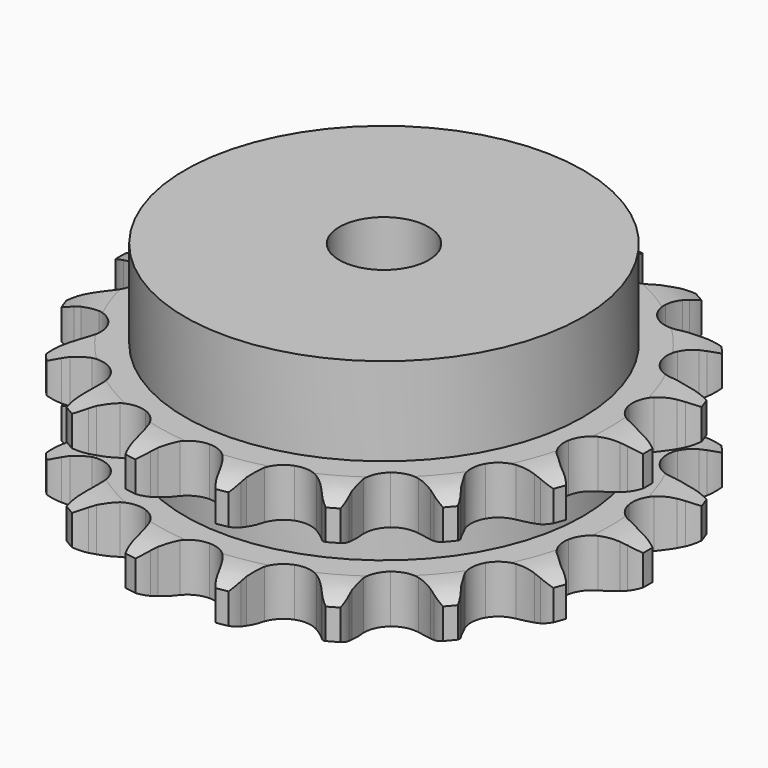
from build123d import *

# Parameters (mm, degrees)
PAD_DEPTH         = 30.3
SKETCH001_R       = 44.5
PAD001_DEPTH      = 50
SKETCH002_R       = 10
POCKET_DEPTH      = 0.001
POCKET_DEPTH_BACK = 50.001


with BuildPart() as part:
    # Sprocket → Pad (new body)
    with BuildSketch(Plane.XY):
        with BuildLine():
            ThreePointArc((-10.555317, 59.862178), (-8.754711, 58.078438), (-7.459976, 55.899546))
            Line((-7.459976, 55.899546), (-6.883971, 54.571303))
            ThreePointArc((-6.883971, 54.571303), (-5.949732, 52.750867), (-4.787505, 51.066821))
            ThreePointArc((-4.787505, 51.066821), (-2.659531, 49.358942), (0, 48.749014))
            ThreePointArc((0, 48.749014), (2.659531, 49.358942), (4.787505, 51.066821))
            ThreePointArc((4.787505, 51.066821), (5.949732, 52.750867), (6.883971, 54.571303))
            Line((6.883971, 54.571303), (7.459976, 55.899546))
            ThreePointArc((7.459976, 55.899546), (8.754711, 58.078438), (10.555317, 59.862178))
            ThreePointArc((10.555317, 59.862178), (11.637258, 57.570167), (12.108686, 55.079853))
            Line((12.108686, 55.079853), (12.195668, 53.634707))
            ThreePointArc((12.195668, 53.634707), (12.45094, 51.604529), (12.967099, 49.624538))
            ThreePointArc((12.967099, 49.624538), (14.38261, 47.291847), (16.673145, 45.809089))
            ThreePointArc((16.673145, 45.809089), (19.380895, 45.47262), (21.964664, 46.349692))
            Line((21.964664, 46.349692), (25.133301, 48.925794))
            ThreePointArc((25.133301, 48.925794), (25.619001, 49.4628), (26.128855, 49.976929))
            ThreePointArc((26.128855, 49.976929), (28.090733, 51.581592), (30.392824, 52.641916))
            ThreePointArc((30.392824, 52.641916), (30.625603, 50.118085), (30.216862, 47.616717))
            Line((30.216862, 47.616717), (29.80433, 46.228974))
            ThreePointArc((29.80433, 46.228974), (29.349845, 44.233923), (29.157679, 42.196803))
            ThreePointArc((29.157679, 42.196803), (29.689997, 39.520657), (31.335262, 37.343911))
            ThreePointArc((31.335262, 37.343911), (33.764636, 36.101629), (36.492561, 36.042106))
            Line((36.492561, 36.042106), (40.351185, 37.379112))
            ThreePointArc((40.351185, 37.379112), (40.99126, 37.717613), (41.646209, 38.026356))
            ThreePointArc((41.646209, 38.026356), (44.038598, 38.863245), (46.564508, 39.072262))
            ThreePointArc((46.564508, 39.072262), (45.920047, 36.621021), (44.680439, 34.410302))
            Line((44.680439, 34.410302), (43.818149, 33.247345))
            ThreePointArc((43.818149, 33.247345), (42.708725, 31.528053), (41.831412, 29.679511))
            ThreePointArc((41.831412, 29.679511), (41.416332, 26.982693), (42.217884, 24.374507))
            ThreePointArc((42.217884, 24.374507), (44.075864, 22.376249), (46.618917, 21.38731))
            Line((46.618917, 21.38731), (50.70212, 21.323958))
            ThreePointArc((50.70212, 21.323958), (51.419368, 21.423126), (52.140415, 21.489244))
            ThreePointArc((52.140415, 21.489244), (54.674758, 21.457417), (57.119825, 20.789916))
            ThreePointArc((57.119825, 20.789916), (55.675857, 18.706922), (53.754895, 17.053497))
            Line((53.754895, 17.053497), (52.546853, 16.255595))
            ThreePointArc((52.546853, 16.255595), (50.916303, 15.019435), (49.45966, 13.582432))
            ThreePointArc((49.45966, 13.582432), (48.147246, 11.190218), (48.008407, 8.465177))
            ThreePointArc((48.008407, 8.465177), (49.070892, 5.951963), (51.122343, 4.152889))
            Line((51.122343, 4.152889), (54.937631, 2.69682))
            ThreePointArc((54.937631, 2.69682), (55.645542, 2.544694), (56.345717, 2.360212))
            ThreePointArc((56.345717, 2.360212), (58.716336, 1.463508), (60.785649, 0))
            ThreePointArc((60.785649, 0), (58.716336, -1.463508), (56.345717, -2.360212))
            Line((56.345717, -2.360212), (54.937631, -2.69682))
            ThreePointArc((54.937631, -2.69682), (52.982623, -3.300749), (51.122343, -4.152889))
            ThreePointArc((51.122343, -4.152889), (49.070892, -5.951963), (48.008407, -8.465177))
            ThreePointArc((48.008407, -8.465177), (48.147246, -11.190218), (49.45966, -13.582432))
            Line((49.45966, -13.582432), (52.546853, -16.255595))
            ThreePointArc((52.546853, -16.255595), (53.160041, -16.640666), (53.754895, -17.053497))
            ThreePointArc((53.754895, -17.053497), (55.675857, -18.706922), (57.119825, -20.789916))
            ThreePointArc((57.119825, -20.789916), (54.674758, -21.457417), (52.140415, -21.489244))
            Line((52.140415, -21.489244), (50.70212, -21.323958))
            ThreePointArc((50.70212, -21.323958), (48.658457, -21.222814), (46.618917, -21.38731))
            ThreePointArc((46.618917, -21.38731), (44.075864, -22.376249), (42.217884, -24.374507))
            ThreePointArc((42.217884, -24.374507), (41.416332, -26.982693), (41.831412, -29.679511))
            Line((41.831412, -29.679511), (43.818149, -33.247345))
            ThreePointArc((43.818149, -33.247345), (44.262656, -33.818916), (44.680439, -34.410302))
            ThreePointArc((44.680439, -34.410302), (45.920047, -36.621021), (46.564508, -39.072262))
            ThreePointArc((46.564508, -39.072262), (44.038598, -38.863245), (41.646209, -38.026356))
            Line((41.646209, -38.026356), (40.351185, -37.379112))
            ThreePointArc((40.351185, -37.379112), (38.465363, -36.585095), (36.492561, -36.042106))
            ThreePointArc((36.492561, -36.042106), (33.764636, -36.101629), (31.335262, -37.343911))
            ThreePointArc((31.335262, -37.343911), (29.689997, -39.520657), (29.157679, -42.196803))
            Line((29.157679, -42.196803), (29.80433, -46.228974))
            ThreePointArc((29.80433, -46.228974), (30.02654, -46.918106), (30.216862, -47.616717))
            ThreePointArc((30.216862, -47.616717), (30.625603, -50.118085), (30.392824, -52.641916))
            ThreePointArc((30.392824, -52.641916), (28.090733, -51.581592), (26.128855, -49.976929))
            Line((26.128855, -49.976929), (25.133301, -48.925794))
            ThreePointArc((25.133301, -48.925794), (23.632779, -47.534673), (21.964664, -46.349692))
            ThreePointArc((21.964664, -46.349692), (19.380895, -45.47262), (16.673145, -45.809089))
            ThreePointArc((16.673145, -45.809089), (14.38261, -47.291847), (12.967099, -49.624538))
            Line((12.967099, -49.624538), (12.195668, -53.634707))
            ThreePointArc((12.195668, -53.634707), (12.168781, -54.358279), (12.108686, -55.079853))
            ThreePointArc((12.108686, -55.079853), (11.637258, -57.570167), (10.555317, -59.862178))
            ThreePointArc((10.555317, -59.862178), (8.754711, -58.078438), (7.459976, -55.899546))
            Line((7.459976, -55.899546), (6.883971, -54.571303))
            ThreePointArc((6.883971, -54.571303), (5.949732, -52.750867), (4.787505, -51.066821))
            ThreePointArc((4.787505, -51.066821), (2.659531, -49.358942), (0, -48.749014))
            ThreePointArc((0, -48.749014), (-2.659531, -49.358942), (-4.787505, -51.066821))
            Line((-4.787505, -51.066821), (-6.883971, -54.571303))
            ThreePointArc((-6.883971, -54.571303), (-7.156713, -55.242042), (-7.459976, -55.899546))
            ThreePointArc((-7.459976, -55.899546), (-8.754711, -58.078438), (-10.555317, -59.862178))
            ThreePointArc((-10.555317, -59.862178), (-11.637258, -57.570167), (-12.108686, -55.079853))
            Line((-12.108686, -55.079853), (-12.195668, -53.634707))
            ThreePointArc((-12.195668, -53.634707), (-12.45094, -51.604529), (-12.967099, -49.624538))
            ThreePointArc((-12.967099, -49.624538), (-14.38261, -47.291847), (-16.673145, -45.809089))
            ThreePointArc((-16.673145, -45.809089), (-19.380895, -45.47262), (-21.964664, -46.349692))
            Line((-21.964664, -46.349692), (-25.133301, -48.925794))
            ThreePointArc((-25.133301, -48.925794), (-25.619001, -49.4628), (-26.128855, -49.976929))
            ThreePointArc((-26.128855, -49.976929), (-28.090733, -51.581592), (-30.392824, -52.641916))
            ThreePointArc((-30.392824, -52.641916), (-30.625603, -50.118085), (-30.216862, -47.616717))
            Line((-30.216862, -47.616717), (-29.80433, -46.228974))
            ThreePointArc((-29.80433, -46.228974), (-29.349845, -44.233923), (-29.157679, -42.196803))
            ThreePointArc((-29.157679, -42.196803), (-29.689997, -39.520657), (-31.335262, -37.343911))
            ThreePointArc((-31.335262, -37.343911), (-33.764636, -36.101629), (-36.492561, -36.042106))
            Line((-36.492561, -36.042106), (-40.351185, -37.379112))
            ThreePointArc((-40.351185, -37.379112), (-40.99126, -37.717613), (-41.646209, -38.026356))
            ThreePointArc((-41.646209, -38.026356), (-44.038598, -38.863245), (-46.564508, -39.072262))
            ThreePointArc((-46.564508, -39.072262), (-45.920047, -36.621021), (-44.680439, -34.410302))
            Line((-44.680439, -34.410302), (-43.818149, -33.247345))
            ThreePointArc((-43.818149, -33.247345), (-42.708725, -31.528053), (-41.831412, -29.679511))
            ThreePointArc((-41.831412, -29.679511), (-41.416332, -26.982693), (-42.217884, -24.374507))
            ThreePointArc((-42.217884, -24.374507), (-44.075864, -22.376249), (-46.618917, -21.38731))
            Line((-46.618917, -21.38731), (-50.70212, -21.323958))
            ThreePointArc((-50.70212, -21.323958), (-51.419368, -21.423126), (-52.140415, -21.489244))
            ThreePointArc((-52.140415, -21.489244), (-54.674758, -21.457417), (-57.119825, -20.789916))
            ThreePointArc((-57.119825, -20.789916), (-55.675857, -18.706922), (-53.754895, -17.053497))
            Line((-53.754895, -17.053497), (-52.546853, -16.255595))
            ThreePointArc((-52.546853, -16.255595), (-50.916303, -15.019435), (-49.45966, -13.582432))
            ThreePointArc((-49.45966, -13.582432), (-48.147246, -11.190218), (-48.008407, -8.465177))
            ThreePointArc((-48.008407, -8.465177), (-49.070892, -5.951963), (-51.122343, -4.152889))
            Line((-51.122343, -4.152889), (-54.937631, -2.69682))
            ThreePointArc((-54.937631, -2.69682), (-55.645542, -2.544694), (-56.345717, -2.360212))
            ThreePointArc((-56.345717, -2.360212), (-58.716336, -1.463508), (-60.785649, 0))
            ThreePointArc((-60.785649, 0), (-58.716336, 1.463508), (-56.345717, 2.360212))
            Line((-56.345717, 2.360212), (-54.937631, 2.69682))
            ThreePointArc((-54.937631, 2.69682), (-52.982623, 3.300749), (-51.122343, 4.152889))
            ThreePointArc((-51.122343, 4.152889), (-49.070892, 5.951963), (-48.008407, 8.465177))
            ThreePointArc((-48.008407, 8.465177), (-48.147246, 11.190218), (-49.45966, 13.582432))
            Line((-49.45966, 13.582432), (-52.546853, 16.255595))
            ThreePointArc((-52.546853, 16.255595), (-53.160041, 16.640666), (-53.754895, 17.053497))
            ThreePointArc((-53.754895, 17.053497), (-55.675857, 18.706922), (-57.119825, 20.789916))
            ThreePointArc((-57.119825, 20.789916), (-54.674758, 21.457417), (-52.140415, 21.489244))
            Line((-52.140415, 21.489244), (-50.70212, 21.323958))
            ThreePointArc((-50.70212, 21.323958), (-48.658457, 21.222814), (-46.618917, 21.38731))
            ThreePointArc((-46.618917, 21.38731), (-44.075864, 22.376249), (-42.217884, 24.374507))
            ThreePointArc((-42.217884, 24.374507), (-41.416332, 26.982693), (-41.831412, 29.679511))
            Line((-41.831412, 29.679511), (-43.818149, 33.247345))
            ThreePointArc((-43.818149, 33.247345), (-44.262656, 33.818916), (-44.680439, 34.410302))
            ThreePointArc((-44.680439, 34.410302), (-45.920047, 36.621021), (-46.564508, 39.072262))
            ThreePointArc((-46.564508, 39.072262), (-44.038598, 38.863245), (-41.646209, 38.026356))
            Line((-41.646209, 38.026356), (-40.351185, 37.379112))
            ThreePointArc((-40.351185, 37.379112), (-38.465363, 36.585095), (-36.492561, 36.042106))
            ThreePointArc((-36.492561, 36.042106), (-33.764636, 36.101629), (-31.335262, 37.343911))
            ThreePointArc((-31.335262, 37.343911), (-29.689997, 39.520657), (-29.157679, 42.196803))
            Line((-29.157679, 42.196803), (-29.80433, 46.228974))
            ThreePointArc((-29.80433, 46.228974), (-30.02654, 46.918106), (-30.216862, 47.616717))
            ThreePointArc((-30.216862, 47.616717), (-30.625603, 50.118085), (-30.392824, 52.641916))
            ThreePointArc((-30.392824, 52.641916), (-28.090733, 51.581592), (-26.128855, 49.976929))
            Line((-26.128855, 49.976929), (-25.133301, 48.925794))
            ThreePointArc((-25.133301, 48.925794), (-23.632779, 47.534673), (-21.964664, 46.349692))
            ThreePointArc((-21.964664, 46.349692), (-19.380895, 45.47262), (-16.673145, 45.809089))
            ThreePointArc((-16.673145, 45.809089), (-14.38261, 47.291847), (-12.967099, 49.624538))
            Line((-12.967099, 49.624538), (-12.195668, 53.634707))
            ThreePointArc((-12.195668, 53.634707), (-12.168781, 54.358279), (-12.108686, 55.079853))
            ThreePointArc((-12.108686, 55.079853), (-11.637258, 57.570167), (-10.555317, 59.862178))
        make_face()
    extrude(amount=PAD_DEPTH)

    # Sketch → Groove (revolve, cut)
    with BuildSketch(Plane.XZ):
        with BuildLine():
            ThreePointArc((50.514719, 0), (54.873618, 0.506758), (59, 2))
            Line((59, 2), (59, 8.8))
            ThreePointArc((59, 8.8), (54.873618, 10.293242), (50.514719, 10.8))
            Line((44.5, 10.8), (50.514719, 10.8))
            Line((44.5, 19.5), (44.5, 10.8))
            Line((50.514719, 19.5), (44.5, 19.5))
            ThreePointArc((50.514719, 19.5), (54.873618, 20.006758), (59, 21.5))
            Line((59, 21.5), (59, 28.3))
            ThreePointArc((59, 28.3), (54.873618, 29.793242), (50.514719, 30.3))
            Line((50.514719, 30.3), (69, 30.3))
            Line((69, 30.3), (69, 0))
            Line((50.514719, 0), (69, 0))
        make_face()
    revolve(axis=Axis((0, 0, 0), (0, 0, 1)), mode=Mode.SUBTRACT)

    # Sketch001 → Pad001 (join)
    with BuildSketch(Plane.XY):
        Circle(SKETCH001_R)
    extrude(amount=PAD001_DEPTH)

    # Sketch002 → Pocket (cut, two sides)
    with BuildSketch(Plane.XY) as pocket_sk:
        Circle(SKETCH002_R)
    extrude(amount=-POCKET_DEPTH, mode=Mode.SUBTRACT)
    extrude(pocket_sk.sketch, amount=POCKET_DEPTH_BACK, mode=Mode.SUBTRACT)


solid = part.part
